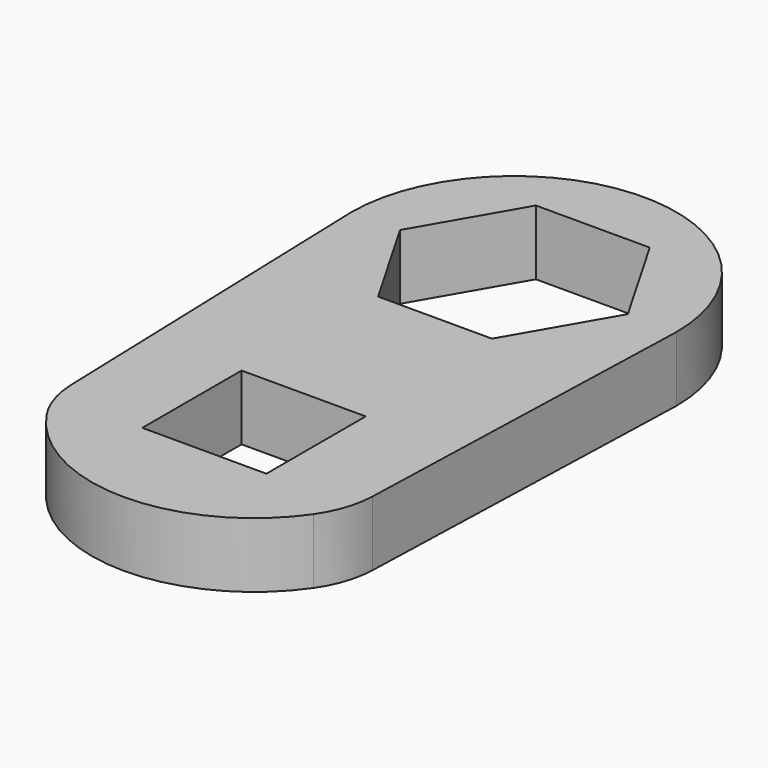
from build123d import *

# Parameters (mm, degrees)
SKETCH_W  = 19.1
SKETCH_H  = 19.1
PAD_DEPTH = 10
FILLET_R  = 15


with BuildPart() as part:
    # Sketch → Pad (new body)
    with BuildSketch(Plane.XY):
        with BuildLine():
            ThreePointArc((25, 0), (0, 25), (-25, 0))
            Line((-25, 0), (-23.104058, -59.55))
            ThreePointArc((-23.104058, -59.55), (0, -75), (23.104058, -59.55))
            Line((23.104058, -59.55), (25, 0))
        make_face()
        Polygon((-17.525, 0), (-8.7625, -15.177095), (8.7625, -15.177095), (17.525, 0), (8.7625, 15.177095), (-8.7625, 15.177095), align=None, mode=Mode.SUBTRACT)
        with Locations((0, -50)):
            Rectangle(SKETCH_W, SKETCH_H, mode=Mode.SUBTRACT)
    extrude(amount=PAD_DEPTH)

    # Fillet
    fillet_edges = [part.edges().sort_by_distance(p)[0] for p in [
        (-25, 0, 5),
        (-23.104058, -59.55, 5),
        (23.104058, -59.55, 5),
        (25, 0, 5),
    ]]
    fillet(fillet_edges, radius=FILLET_R)


solid = part.part
